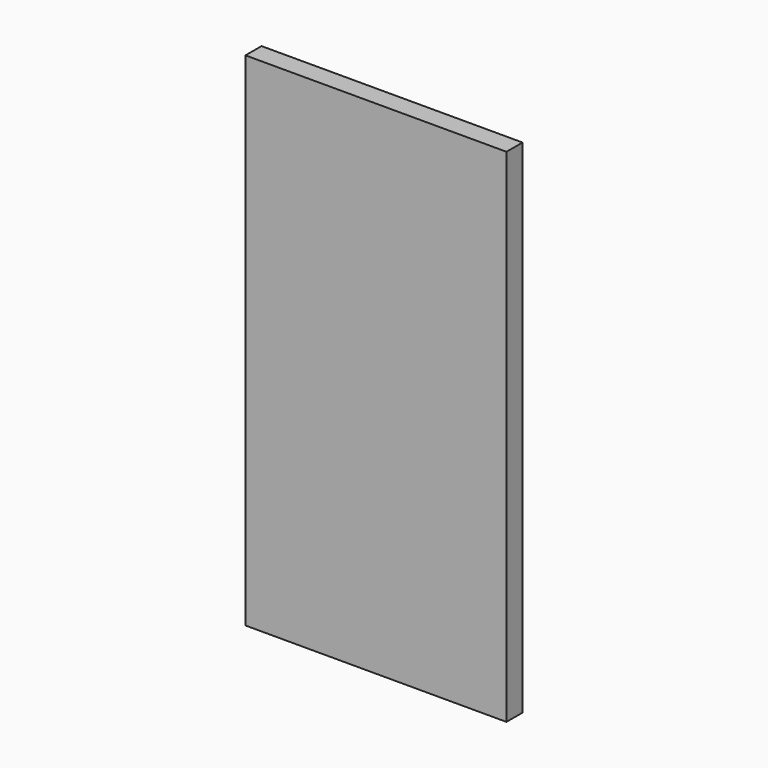
from build123d import *

# Parameters (mm, degrees)
SKETCH_W  = 130
SKETCH_H  = 250
PAD_DEPTH = 10


with BuildPart() as part:
    # Sketch → Pad (new body)
    with BuildSketch(Plane.XZ):
        with Locations((65, 125)):
            Rectangle(SKETCH_W, SKETCH_H)
    extrude(amount=PAD_DEPTH)


solid = part.part
